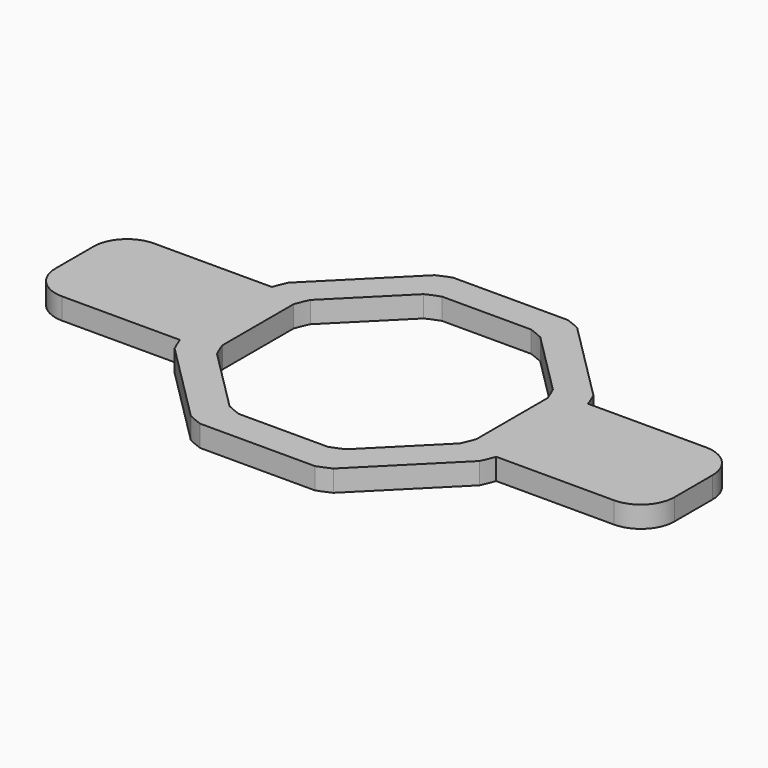
from build123d import *

# Parameters (mm, degrees)
F1_DEPTH = 2.54
F2_DEPTH = 2.54


with BuildPart() as f1:
    # F0 (on Top) → F1 (new body)
    with BuildSketch(Plane.XY):
        with BuildLine():
            Line((-8.450525, 18.079717), (-18.079717, 8.450525))
            ThreePointArc((-18.079717, 8.450525), (-18.437996, 7.637268), (-18.759714, 6.808867))
            Line((-18.759714, 6.808867), (-18.759714, -6.808867))
            ThreePointArc((-18.759714, -6.808867), (-18.437996, -7.637268), (-18.079717, -8.450525))
            Line((-18.079717, -8.450525), (-8.450525, -18.079717))
            ThreePointArc((-8.450525, -18.079717), (-7.637268, -18.437996), (-6.808867, -18.759714))
            Line((-6.808867, -18.759714), (6.808867, -18.759714))
            ThreePointArc((6.808867, -18.759714), (7.637268, -18.437996), (8.450525, -18.079717))
            Line((8.450525, -18.079717), (18.079717, -8.450525))
            ThreePointArc((18.079717, -8.450525), (18.437996, -7.637268), (18.759714, -6.808867))
            Line((18.759714, -6.808867), (18.759714, 6.808867))
            ThreePointArc((18.759714, 6.808867), (18.437996, 7.637268), (18.079717, 8.450525))
            Line((18.079717, 8.450525), (8.450525, 18.079717))
            ThreePointArc((8.450525, 18.079717), (7.637268, 18.437996), (6.808867, 18.759714))
            Line((6.808867, 18.759714), (-6.808867, 18.759714))
            ThreePointArc((-6.808867, 18.759714), (-7.637268, 18.437996), (-8.450525, 18.079717))
        make_face()
        with BuildLine():
            ThreePointArc((14.434948, 6.998554), (14.79794, 6.186909), (15.115186, 5.356315))
            Line((15.115186, 5.356315), (15.115186, -5.202126))
            ThreePointArc((15.115186, -5.202126), (14.79794, -6.03272), (14.434948, -6.844365))
            Line((14.434948, -6.844365), (6.969003, -14.310311))
            ThreePointArc((6.969003, -14.310311), (6.157358, -14.673302), (5.326764, -14.990549))
            Line((5.326764, -14.990549), (-5.231677, -14.990549))
            ThreePointArc((-5.231677, -14.990549), (-6.062271, -14.673302), (-6.873916, -14.310311))
            Line((-6.873916, -14.310311), (-14.339862, -6.844365))
            ThreePointArc((-14.339862, -6.844365), (-14.702853, -6.03272), (-15.0201, -5.202126))
            Line((-15.0201, -5.202126), (-15.0201, 5.356315))
            ThreePointArc((-15.0201, 5.356315), (-14.702853, 6.186909), (-14.339862, 6.998554))
            Line((-14.339862, 6.998554), (-6.873916, 14.4645))
            ThreePointArc((-6.873916, 14.4645), (-6.062271, 14.827491), (-5.231677, 15.144737))
            Line((-5.231677, 15.144737), (5.326764, 15.144737))
            ThreePointArc((5.326764, 15.144737), (6.157358, 14.827491), (6.969003, 14.4645))
            Line((6.969003, 14.4645), (14.434948, 6.998554))
        make_face(mode=Mode.SUBTRACT)
    extrude(amount=F1_DEPTH)

    # F0 (on Top) → F2 (join)
    with BuildSketch(Plane.XY):
        with BuildLine():
            Line((-18.759714, -6.808867), (-18.759714, 6.808867))
            Line((-18.759714, 6.808867), (-32.729714, 6.808867))
            ThreePointArc((-32.729714, 6.808867), (-35.55208, 5.639805), (-36.721143, 2.817439))
            Line((-36.721143, 2.817439), (-36.721143, -2.817439))
            ThreePointArc((-36.721143, -2.817439), (-35.55208, -5.639805), (-32.729714, -6.808867))
            Line((-32.729714, -6.808867), (-18.759714, -6.808867))
        make_face()
        with BuildLine():
            Line((32.729714, 6.808867), (18.759714, 6.808867))
            Line((18.759714, 6.808867), (18.759714, -6.808867))
            Line((18.759714, -6.808867), (32.729714, -6.808867))
            ThreePointArc((32.729714, -6.808867), (35.55208, -5.639805), (36.721143, -2.817439))
            Line((36.721143, -2.817439), (36.721143, 2.817439))
            ThreePointArc((36.721143, 2.817439), (35.55208, 5.639805), (32.729714, 6.808867))
        make_face()
    extrude(amount=F2_DEPTH)


solid = f1.part
